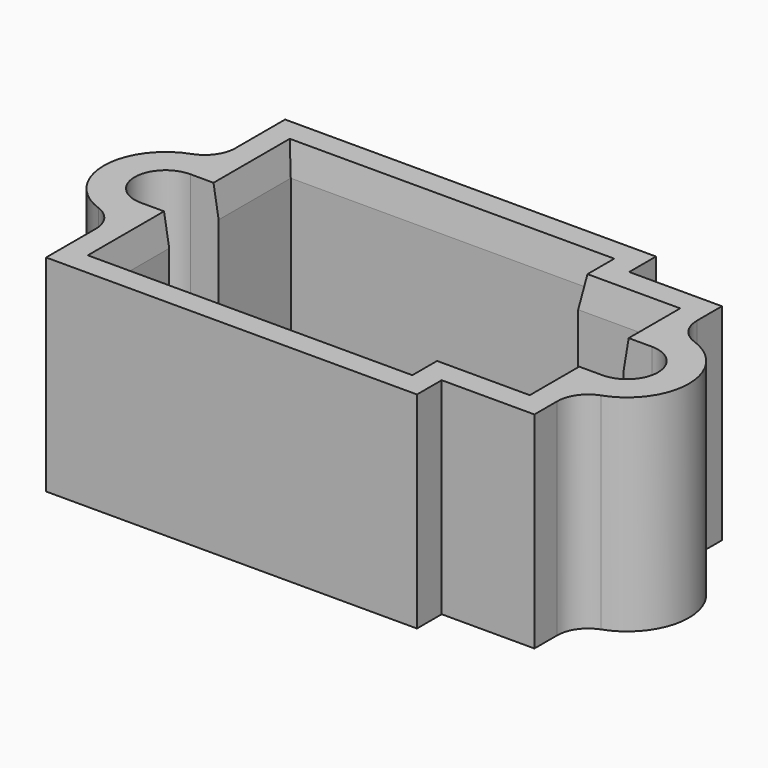
from build123d import *

# Parameters (mm, degrees)
F1_DEPTH = 20
F2_R     = 3
F3_SIZE2 = 3
F3_SIZE  = 0.5


with BuildPart() as f1:
    # F0 (on Top) → F1 (new body)
    with BuildSketch(Plane.XY):
        with BuildLine():
            Line((17.875, 14.5), (-18.125, 14.5))
            Line((-18.125, 14.5), (-18.125, 6))
            ThreePointArc((-18.125, 6), (-24.125, 0), (-18.125, -6))
            Line((-18.125, -6), (-18.125, -14.5))
            Line((-18.125, -14.5), (17.875, -14.5))
            Line((17.875, -14.5), (17.875, -11.5))
            Line((17.875, -11.5), (26.875, -11.5))
            Line((26.875, -11.5), (26.875, -6.244789))
            ThreePointArc((26.875, -6.244789), (32.869789, -0.25), (26.875, 5.744789))
            Line((26.875, 5.744789), (26.875, 11.25))
            Line((26.875, 11.25), (17.875, 11.25))
            Line((17.875, 11.25), (17.875, 14.5))
        make_face()
        with BuildLine():
            Line((-15.375, 3), (-15.375, 11.75))
            Line((-15.375, 11.75), (15.125, 11.75))
            Line((15.125, 11.75), (15.125, 8.5))
            Line((15.125, 8.5), (24.125, 8.5))
            Line((24.125, 8.5), (24.125, 2.75))
            Line((24.125, 2.75), (26.875, 2.75))
            ThreePointArc((26.875, 2.75), (29.875, -0.25), (26.875, -3.25))
            Line((26.875, -3.25), (24.125, -3.25))
            Line((24.125, -3.25), (24.125, -8.75))
            Line((24.125, -8.75), (15.125, -8.75))
            Line((15.125, -8.75), (15.125, -11.75))
            Line((15.125, -11.75), (-15.375, -11.75))
            Line((-15.375, -11.75), (-15.375, -3))
            Line((-15.375, -3), (-18.125, -3))
            ThreePointArc((-18.125, -3), (-21.125, 0), (-18.125, 3))
            Line((-18.125, 3), (-15.375, 3))
        make_face(mode=Mode.SUBTRACT)
    extrude(amount=F1_DEPTH)

    # F2
    f2_edges = [f1.edges().sort_by_distance(p)[0] for p in [
        (26.875, -6.244789, 10),
        (26.875, 5.744789, 10),
        (-18.125, 6, 10),
        (-18.125, -6, 10),
    ]]
    fillet(f2_edges, radius=F2_R)

    # F3
    f3_edges = [f1.edges().sort_by_distance(p)[0] for p in [
        (-15.375, 7.375, 20),
        (-0.125, 11.75, 20),
        (-15.375, -7.375, 20),
        (-0.125, -11.75, 20),
        (15.125, -10.25, 20),
        (15.125, 10.125, 20),
        (19.625, 8.5, 20),
        (24.125, 5.625, 20),
        (24.125, -6, 20),
        (19.625, -8.75, 20),
    ]]
    chamfer(f3_edges, length=F3_SIZE, length2=F3_SIZE2)


solid = f1.part
